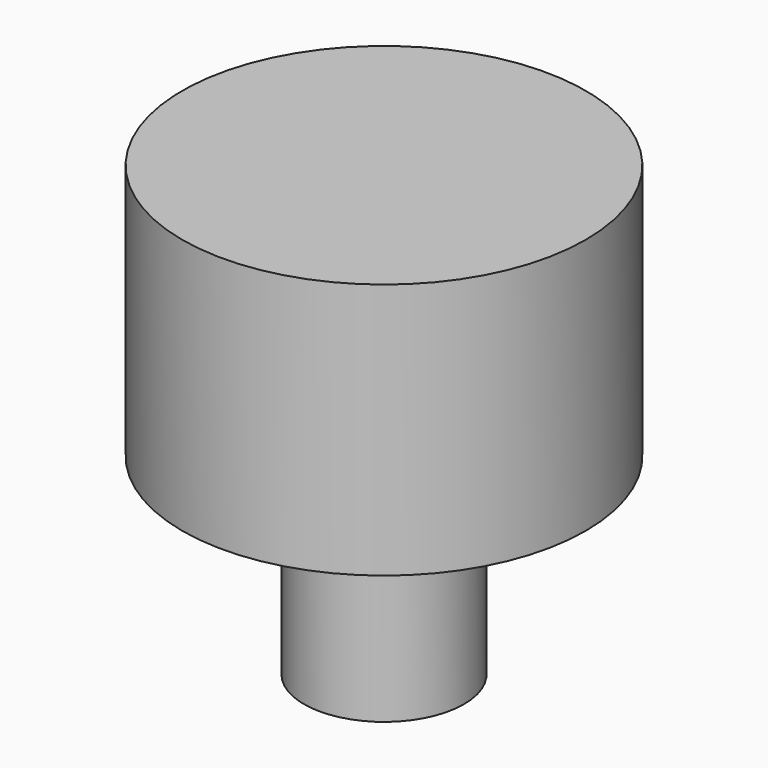
from build123d import *

# Parameters (mm, degrees)
CYLINDER005_R     = 1.25
CYLINDER005_DEPTH = 4
CYLINDER_R        = 3.15
CYLINDER_DEPTH    = 4


with BuildPart() as cylinder005:
    # Cylinder005 → Cylinder005 (new body)
    with BuildSketch(Plane.XY):
        Circle(CYLINDER005_R)
    extrude(amount=CYLINDER005_DEPTH)


with BuildPart() as fusion001:
    # Cylinder → Cylinder (new body)
    with BuildSketch(Plane.XY.offset(3)):
        Circle(CYLINDER_R)
    extrude(amount=CYLINDER_DEPTH)

    # Fusion001: union Cylinder005
    add(cylinder005.part)


solid = fusion001.part
